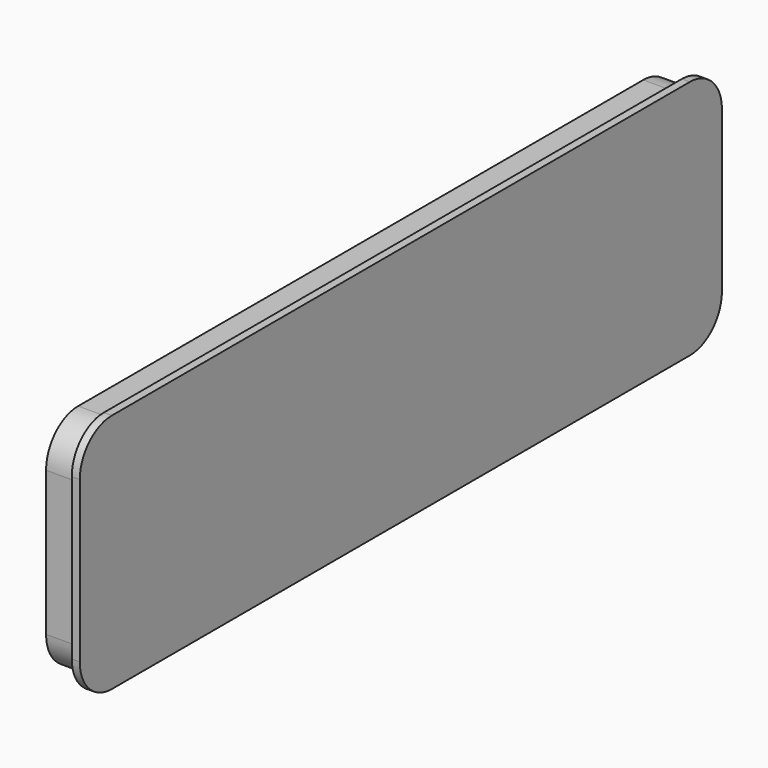
from build123d import *

# Parameters (mm, degrees)
F1_DEPTH = 5
F3_DEPTH = 4
F4_T     = -1


with BuildPart() as f1:
    # F0 (on Right) → F1 (new body)
    with BuildSketch(Plane.YZ):
        with BuildLine():
            ThreePointArc((-50, -10), (-48.5355339059, -13.5355339059), (-45, -15))
            Line((-45, -15), (45, -15))
            ThreePointArc((45, -15), (48.5355339059, -13.5355339059), (50, -10))
            Line((50, -10), (50, 10))
            ThreePointArc((50, 10), (48.5355339059, 13.5355339059), (45, 15))
            Line((45, 15), (-45, 15))
            ThreePointArc((-45, 15), (-48.5355339059, 13.5355339059), (-50, 10))
            Line((-50, 10), (-50, -10))
        make_face()
    extrude(amount=F1_DEPTH)

    # F2 (on face) → F3 (cut)
    with BuildSketch(Plane(origin=(0, 0, 0), x_dir=(0, -1, 0), z_dir=(-1, 0, 0))):
        with BuildLine():
            Line((-45, -15), (45, -15))
            ThreePointArc((45, -15), (48.5355339059, -13.5355339059), (50, -10))
            Line((50, -10), (50, 10))
            ThreePointArc((50, 10), (48.5355339059, 13.5355339059), (45, 15))
            Line((45, 15), (-45, 15))
            ThreePointArc((-45, 15), (-48.5355339059, 13.5355339059), (-50, 10))
            Line((-50, 10), (-50, -10))
            ThreePointArc((-50, -10), (-48.5355339059, -13.5355339059), (-45, -15))
        make_face()
        with BuildLine():
            ThreePointArc((49, -9), (47.5355339059, -12.5355339059), (44, -14))
            Line((44, -14), (-44, -14))
            ThreePointArc((-44, -14), (-47.5355339059, -12.5355339059), (-49, -9))
            Line((-49, -9), (-49, 9))
            ThreePointArc((-49, 9), (-47.5355339059, 12.5355339059), (-44, 14))
            Line((-44, 14), (44, 14))
            ThreePointArc((44, 14), (47.5355339059, 12.5355339059), (49, 9))
            Line((49, 9), (49, -9))
        make_face(mode=Mode.SUBTRACT)
    extrude(amount=-F3_DEPTH, mode=Mode.SUBTRACT)

    # F4
    f4_openings = [f1.faces().sort_by_distance(p)[0] for p in [
        (0, 0, 0),
    ]]
    offset(amount=F4_T, openings=f4_openings, kind=Kind.INTERSECTION)


solid = f1.part
